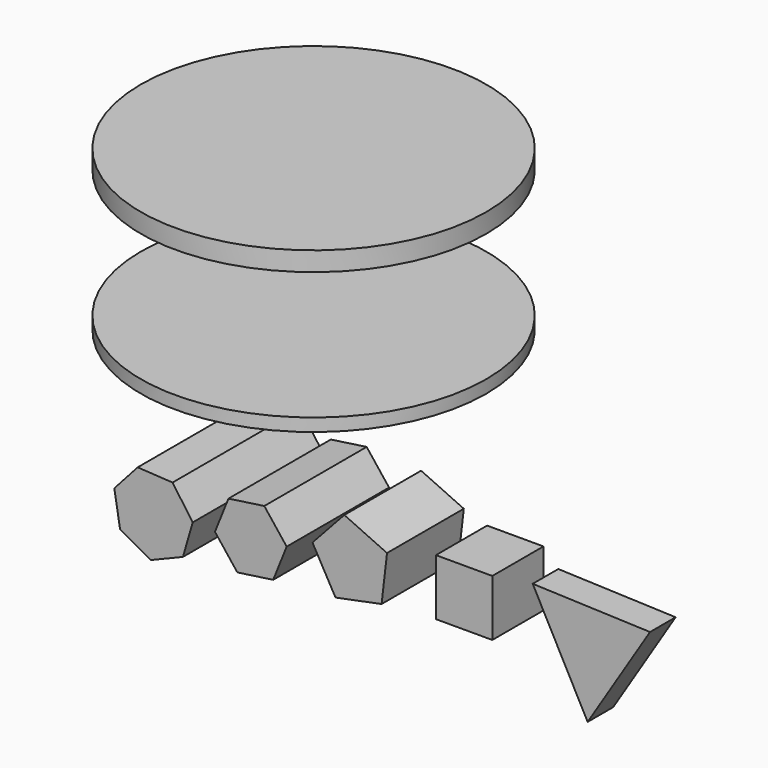
from build123d import *

# Parameters (mm, degrees)
F0_R      = 27
F1_DEPTH  = 2
F2_DEPTH  = 23
F3_DEPTH  = 20
F5_DEPTH  = 5
F6_W      = 8.81119
F6_H      = 8.81119
F7_DEPTH  = 10
F9_DEPTH  = 15
F11_DEPTH = 20
F13_DEPTH = 25


with BuildPart() as f1:
    # F0 (on Top) → F1 (new body)
    with BuildSketch(Plane.XY):
        Circle(F0_R)
    extrude(amount=-F1_DEPTH)


with BuildPart() as f2:
    # F0 (on Top) → F2 (new body)
    with BuildSketch(Plane.XY):
        Circle(F0_R)
    extrude(amount=F2_DEPTH)

    # F0 (on Top) → F3 (cut)
    with BuildSketch(Plane.XY):
        Circle(F0_R)
    extrude(amount=F3_DEPTH, mode=Mode.SUBTRACT)


with BuildPart() as f5:
    # F4 (on Front) → F5 (new body)
    with BuildSketch(Plane.XZ):
        Polygon((38.24924, -22.456184), (46.833805, -38.671445), (56.584351, -23.129363), align=None)
    extrude(amount=F5_DEPTH)


with BuildPart() as f7:
    # F6 (on Front) → F7 (new body)
    with BuildSketch(Plane.XZ):
        with Locations((31.527534, -24.50612)):
            Rectangle(F6_W, F6_H)
    extrude(amount=F7_DEPTH)


with BuildPart() as f9:
    # F8 (on Front) → F9 (new body)
    with BuildSketch(Plane.XZ):
        Polygon((11.829331, -21.305269), (15.430287, -27.706971), (22.631424, -26.260494), (23.481016, -18.964819), (16.804955, -15.902322), align=None)
    extrude(amount=F9_DEPTH)


with BuildPart() as f11:
    # F10 (on Front) → F11 (new body)
    with BuildSketch(Plane.XZ):
        Polygon((0.591765, -21.454447), (4.089179, -25.905697), (9.692781, -25.102473), (11.798969, -19.847999), (8.301556, -15.396749), (2.697954, -16.199974), align=None)
    extrude(amount=F11_DEPTH)


with BuildPart() as f13:
    # F12 (on Front) → F13 (new body)
    with BuildSketch(Plane.XZ):
        Polygon((-10.234291, -22.629406), (-5.46064, -25.281434), (-0.410879, -23.202756), (1.11242, -17.958659), (-2.037818, -13.498055), (-7.489401, -13.179869), (-11.137174, -17.243703), align=None)
    extrude(amount=F13_DEPTH)


solid = Compound([f1.part, f2.part, f5.part, f7.part, f9.part, f11.part, f13.part])
